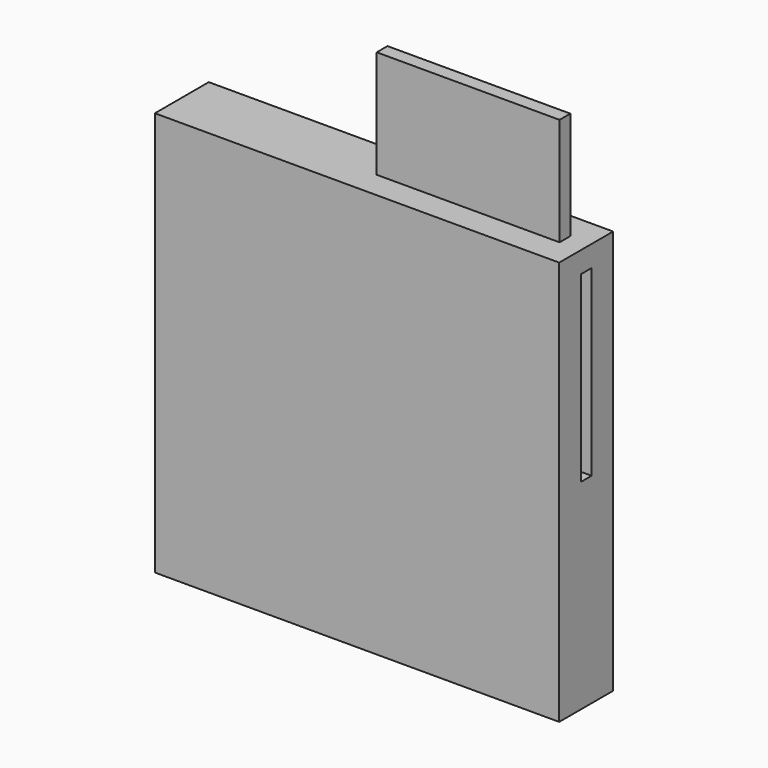
from build123d import *

# Parameters (mm, degrees)
F0_W      = 30
F0_H      = 5
F1_DEPTH  = 30
F2_W      = 13.566826
F2_H      = 1
F3_DEPTH  = 10
F4_W      = 13.566826
F4_H      = 1
F5_DEPTH  = 8
F7_W      = 1
F7_H      = 13.567
F8_DEPTH  = 10
F11_W     = 1
F11_H     = 13.567
F12_DEPTH = 10


with BuildPart() as f1:
    # F0 (on Top) → F1 (new body)
    with BuildSketch(Plane.XY):
        with Locations((0.140376, -5.25783)):
            Rectangle(F0_W, F0_H)
    extrude(amount=F1_DEPTH)

    # F2 (on Top) → F3 (cut)
    with BuildSketch(Plane.XY):
        with Locations((6.783413, -5.25783)):
            Rectangle(F2_W, F2_H)
    extrude(amount=F3_DEPTH, mode=Mode.SUBTRACT)


with BuildPart() as f5:
    # F4 (on Top) → F5 (new body)
    with BuildSketch(Plane.XY):
        with Locations((6.783413, -5.25783)):
            Rectangle(F4_W, F4_H)
    extrude(amount=F5_DEPTH)


with BuildPart() as f5_1:
    # F6: moved
    add(f5.part.moved(Location((0, 0, 30))))


with BuildPart() as f8:
    # F7 (on Right) → F8 (new body)
    with BuildSketch(Plane.YZ):
        with Locations((-5.369885, 25.184676)):
            Rectangle(F7_W, F7_H)
    extrude(amount=F8_DEPTH)


with BuildPart() as f8_1:
    # F9: moved
    add(f8.part.moved(Location((-15, 0, -3.574))))


with BuildPart() as f1_1:
    add(f1.part)

    # F10: cut F8
    add(f8_1.part, mode=Mode.SUBTRACT)


with BuildPart() as f12:
    # F11 (on Right) → F12 (new body)
    with BuildSketch(Plane.YZ):
        with Locations((-5.25783, 21.6425)):
            Rectangle(F11_W, F11_H)
    extrude(amount=F12_DEPTH)


with BuildPart() as f12_1:
    # F13: moved
    add(f12.part.moved(Location((5.2, 0, 0))))


with BuildPart() as f1_2:
    add(f1_1.part)

    # F14: cut F12
    add(f12_1.part, mode=Mode.SUBTRACT)


solid = Compound([f5_1.part, f1_2.part])
